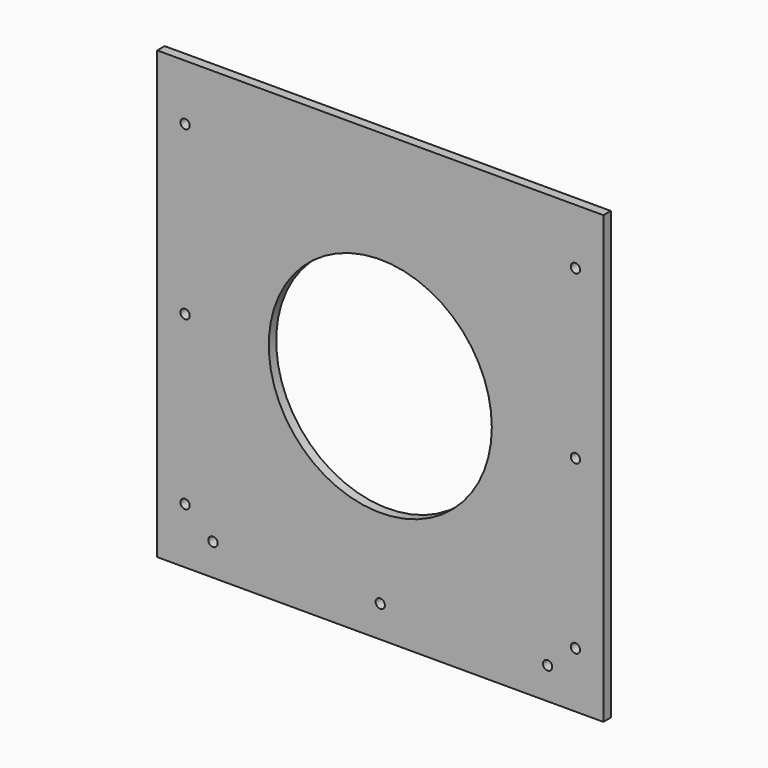
from build123d import *

# Parameters (mm, degrees)
F0_W           = 304.8
F0_H           = 304.8
F0_R           = 76.2
F1_DEPTH       = 6.35
F2_D           = 6.35
F2_DEPTH       = 304.8
F2_CBORE_D     = 6.35
F2_CBORE_DEPTH = 304.8
F2_TIP         = 1.9077324654


with BuildPart() as f1:
    # F0 (on Front) → F1 (new body)
    with BuildSketch(Plane.XZ):
        Rectangle(F0_W, F0_H)
        Circle(F0_R, mode=Mode.SUBTRACT)
        Rectangle(F0_W, F0_H)
        Circle(F0_R, mode=Mode.SUBTRACT)
    extrude(amount=F1_DEPTH)

    # F2
    with Locations(Plane(origin=(0, 0, 0), x_dir=(1, 0, 0), z_dir=(0, 1, 0))):
        with Locations((-133.35, -114.3), (-133.35, 0), (133.35, -114.3), (133.35, 0), (133.35, 114.3), (114.3, 130.7665854692), (0, 130.7665854692), (-114.3, 130.7665854692), (-133.35, 114.3)):
            CounterBoreHole(F2_D / 2, F2_CBORE_D / 2, F2_CBORE_DEPTH, depth=F2_DEPTH)
            with Locations((0, 0, -(F2_DEPTH + F2_TIP / 2))):  # 118° drill point
                Cone(0, F2_D / 2, F2_TIP, mode=Mode.SUBTRACT)


solid = f1.part
